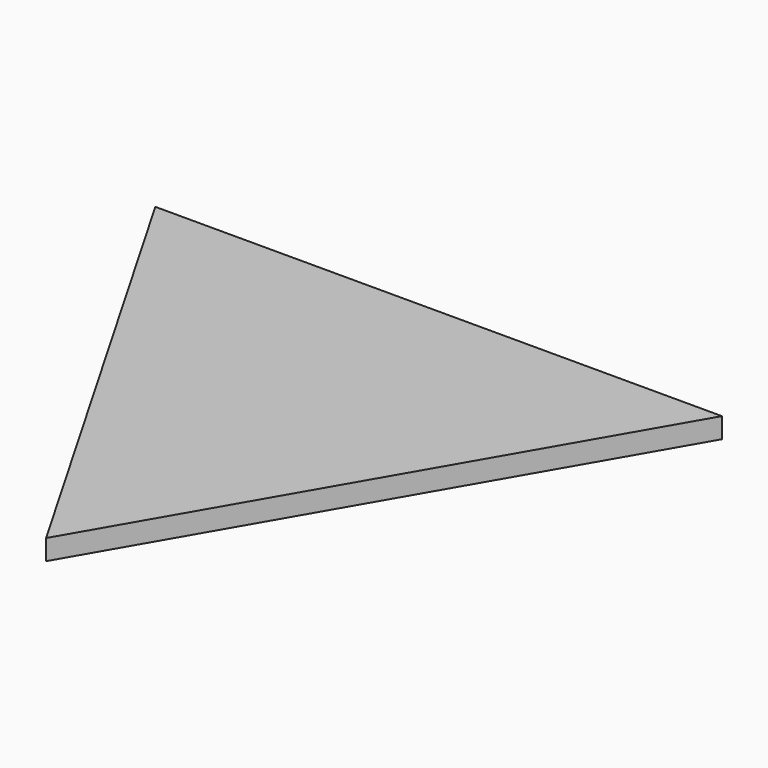
from build123d import *

# Parameters (mm, degrees)
F1_DEPTH = 6.35
F2_DEPTH = 6.35


with BuildPart() as f1:
    # F0 (on Top) → F1 (new body)
    with BuildSketch(Plane.XY):
        Polygon((88.284709, 27.922347), (-88.284709, 27.922347), (0, -124.991255), align=None)
    extrude(amount=F1_DEPTH)

    # F0 (on Top) → F2 (join)
    with BuildSketch(Plane.XY):
        Polygon((88.284709, 27.922347), (-88.284709, 27.922347), (0, -124.991255), align=None)
    extrude(amount=F2_DEPTH)


solid = f1.part
